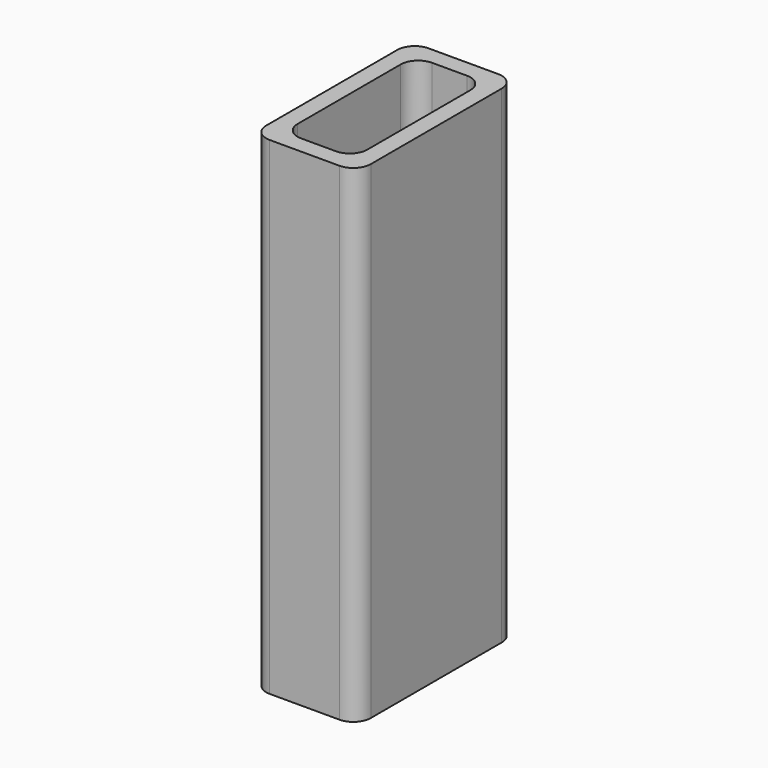
from build123d import *

# Parameters (mm, degrees)
F0_W          = 30.0000000298
F0_H          = 57.0000000298
F0_W_2        = 20
F0_H_2        = 47
F1_DEPTH      = 70
F1_DEPTH_BACK = 70
F2_R          = 5
F3_W          = 10.0000004768
F3_H          = 37.0000004768
F4_DEPTH      = 120
F5_R          = 5
F6_R          = 2.074
F7_DEPTH      = 20


with BuildPart() as f1:
    # F0 (on Top) → F1 (new body, two sides)
    with BuildSketch(Plane.XY) as f1_sk:
        Rectangle(F0_W, F0_H)
        Rectangle(F0_W_2, F0_H_2, mode=Mode.SUBTRACT)
    extrude(amount=F1_DEPTH)
    extrude(f1_sk.sketch, amount=-F1_DEPTH_BACK)

    # F2
    f2_edges = [f1.edges().sort_by_distance(p)[0] for p in [
        (-10, 23.5, 0),
        (10, 23.5, 0),
        (-10, -23.5, 0),
        (10, -23.5, 0),
        (-15, 28.5, 0),
        (15, 28.5, 0),
        (15, -28.5, 0),
        (-15, -28.5, 0),
    ]]
    fillet(f2_edges, radius=F2_R)

    # F3 (on face) → F4 (join)
    with BuildSketch(Plane(origin=(0, 0, -70), x_dir=(1, 0, 0), z_dir=(0, 0, -1))):
        with BuildLine():
            Line((-10, 18.5), (-10, -18.5))
            ThreePointArc((-10, -18.5), (-8.5355339059, -22.0355339059), (-5, -23.5))
            Line((-5, -23.5), (5, -23.5))
            ThreePointArc((5, -23.5), (8.5355339059, -22.0355339059), (10, -18.5))
            Line((10, -18.5), (10, 18.5))
            ThreePointArc((10, 18.5), (8.5355339059, 22.0355339059), (5, 23.5))
            Line((5, 23.5), (-5, 23.5))
            ThreePointArc((-5, 23.5), (-8.5355339059, 22.0355339059), (-10, 18.5))
        make_face()
        Rectangle(F3_W, F3_H, mode=Mode.SUBTRACT)
    extrude(amount=-F4_DEPTH)

    # F5
    f5_edges = [f1.edges().sort_by_distance(p)[0] for p in [
        (-5, -18.5, -10),
        (5, -18.5, -10),
        (5, 18.5, -10),
        (-5, 18.5, -10),
    ]]
    fillet(f5_edges, radius=F5_R)

    # F6 (on face) → F7 (cut)
    with BuildSketch(Plane(origin=(0, 0, -70), x_dir=(1, 0, 0), z_dir=(0, 0, -1))):
        with Locations((-10.0000000149, 23.5000000149)):
            Circle(F6_R)
        with Locations((10.0000000149, 23.5000000149)):
            Circle(F6_R)
        with Locations((-10.0000000149, -23.5000000149)):
            Circle(F6_R)
        with Locations((10.0000000149, -23.5000000149)):
            Circle(F6_R)
    extrude(amount=-F7_DEPTH, mode=Mode.SUBTRACT)


solid = f1.part
